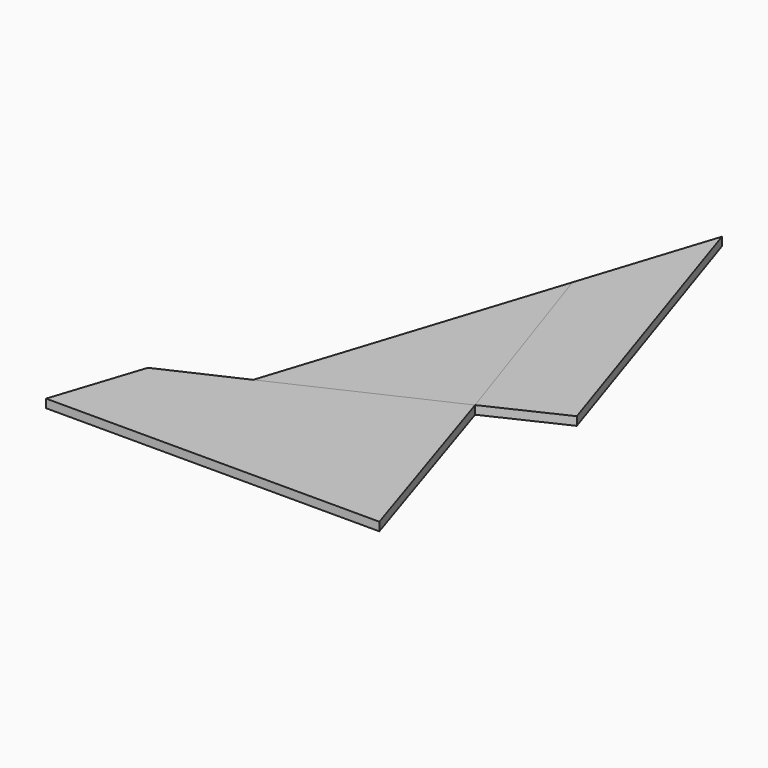
from build123d import *

# Parameters (mm, degrees)
F1_DEPTH = 0.5
F2_DEPTH = 0.5
F3_DEPTH = 0.5


with BuildPart() as f1:
    # F0 (on Top) → F1 (new body)
    with BuildSketch(Plane.XY):
        Polygon((8.709713, 0.410578), (2.751872, 18.539535), (0.225462, 10.698666), (4.366757, -1.64255), align=None)
    extrude(amount=F1_DEPTH)


with BuildPart() as f2:
    # F0 (on Top) → F2 (new body)
    with BuildSketch(Plane.XY):
        Polygon((4.366757, -1.64255), (0.225462, 10.698666), (-5.172026, -6.052764), align=None)
    extrude(amount=F2_DEPTH)


with BuildPart() as f3:
    # F0 (on Top) → F3 (new body)
    with BuildSketch(Plane.XY):
        Polygon((4.366757, -1.64255), (-5.172026, -6.052764), (-9.699969, -8.138), (-11.436996, -13.460465), (8.182896, -13.460465), align=None)
    extrude(amount=F3_DEPTH)


solid = Compound([f1.part, f2.part, f3.part])
